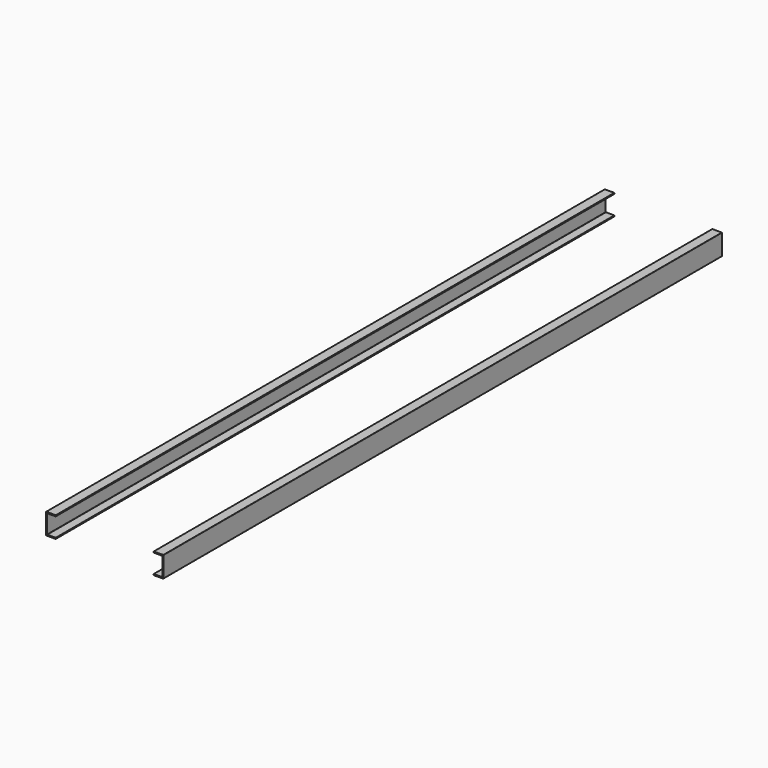
from build123d import *

# Parameters (mm, degrees)
F1_DEPTH = 2500


with BuildPart() as f1:
    # F0 (on Front) → F1 (new body)
    with BuildSketch(Plane.XZ):
        with BuildLine():
            ThreePointArc((-206, 32.5), (-205.707107, 33.207107), (-205, 33.5))
            Line((-205, 33.5), (-176, 33.5))
            ThreePointArc((-176, 33.5), (-175.292893, 33.792893), (-175, 34.5))
            Line((-175, 34.5), (-175, 36.5))
            ThreePointArc((-175, 36.5), (-175.292893, 37.207107), (-176, 37.5))
            Line((-176, 37.5), (-209, 37.5))
            ThreePointArc((-209, 37.5), (-209.707107, 37.207107), (-210, 36.5))
            Line((-210, 36.5), (-210, -36.5))
            ThreePointArc((-210, -36.5), (-209.707107, -37.207107), (-209, -37.5))
            Line((-209, -37.5), (-176, -37.5))
            ThreePointArc((-176, -37.5), (-175.292893, -37.207107), (-175, -36.5))
            Line((-175, -36.5), (-175, -34.5))
            ThreePointArc((-175, -34.5), (-175.292893, -33.792893), (-176, -33.5))
            Line((-176, -33.5), (-205, -33.5))
            ThreePointArc((-205, -33.5), (-205.707107, -33.207107), (-206, -32.5))
            Line((-206, -32.5), (-206, 32.5))
        make_face()
        with BuildLine():
            Line((206, 32.5), (206, -32.5))
            ThreePointArc((206, -32.5), (205.707107, -33.207107), (205, -33.5))
            Line((205, -33.5), (176, -33.5))
            ThreePointArc((176, -33.5), (175.292893, -33.792893), (175, -34.5))
            Line((175, -34.5), (175, -36.5))
            ThreePointArc((175, -36.5), (175.292893, -37.207107), (176, -37.5))
            Line((176, -37.5), (209, -37.5))
            ThreePointArc((209, -37.5), (209.707107, -37.207107), (210, -36.5))
            Line((210, -36.5), (210, 36.5))
            ThreePointArc((210, 36.5), (209.707107, 37.207107), (209, 37.5))
            Line((209, 37.5), (176, 37.5))
            ThreePointArc((176, 37.5), (175.292893, 37.207107), (175, 36.5))
            Line((175, 36.5), (175, 34.5))
            ThreePointArc((175, 34.5), (175.292893, 33.792893), (176, 33.5))
            Line((176, 33.5), (205, 33.5))
            ThreePointArc((205, 33.5), (205.707107, 33.207107), (206, 32.5))
        make_face()
    extrude(amount=F1_DEPTH)


solid = f1.part
